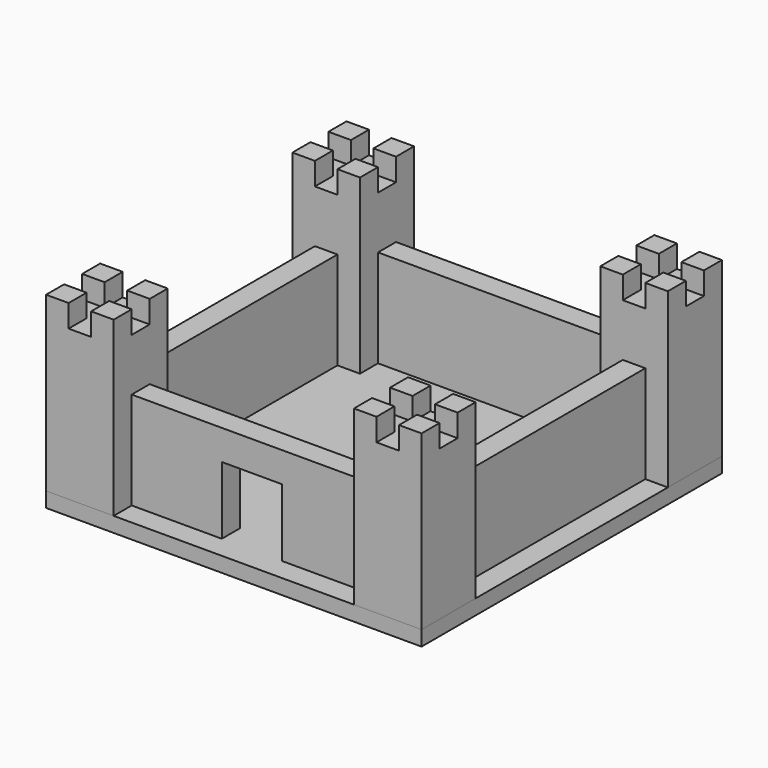
from build123d import *

# Parameters (mm, degrees)
BOX_W                  = 50
BOX_H                  = 50
BOX_DEPTH              = 2
BOX010_W               = 8
BOX010_H               = 10
BOX010_DEPTH           = 9
BOX006_W               = 32
BOX006_H               = 3
BOX006_DEPTH           = 13
BOX009_W               = 32
BOX009_H               = 3
BOX009_DEPTH           = 13
BOX009_PLACEMENT_ANGLE = 90
BOX007_W               = 32
BOX007_H               = 3
BOX007_DEPTH           = 13
BOX005_W               = 3
BOX005_H               = 3
BOX005_DEPTH           = 3
BOX004_W               = 3
BOX004_H               = 3
BOX004_DEPTH           = 3
BOX003_W               = 3
BOX003_H               = 3
BOX003_DEPTH           = 3
BOX002_W               = 9
BOX002_H               = 9
BOX002_DEPTH           = 20
BOX001_W               = 3
BOX001_H               = 3
BOX001_DEPTH           = 3
BOX008_W               = 32
BOX008_H               = 3
BOX008_DEPTH           = 13
BOX008_PLACEMENT_ANGLE = 90


with BuildPart() as base:
    # Box → Box (new body)
    with BuildSketch(Plane.XY.offset(-2)):
        with Locations((25, 25)):
            Rectangle(BOX_W, BOX_H)
    extrude(amount=BOX_DEPTH)


with BuildPart() as puerta:
    # Box010 → Box010 (new body)
    with BuildSketch(Plane(origin=(21, 0, 0), x_dir=(1, 0, 0), z_dir=(0, 0, 1))):
        with Locations((4, 5)):
            Rectangle(BOX010_W, BOX010_H)
    extrude(amount=BOX010_DEPTH)


with BuildPart() as obj1:
    # Box006 → Box006 (new body)
    with BuildSketch(Plane(origin=(9, 3, 0), x_dir=(1, 0, 0), z_dir=(0, 0, 1))):
        with Locations((16, 1.5)):
            Rectangle(BOX006_W, BOX006_H)
    extrude(amount=BOX006_DEPTH)

    # Cut: cut puerta
    add(puerta.part, mode=Mode.SUBTRACT)


with BuildPart() as obj2:
    # Box009 → Box009 (new body)
    with BuildSketch(Plane.XY):
        with Locations((16, 1.5)):
            Rectangle(BOX009_W, BOX009_H)
    extrude(amount=BOX009_DEPTH)


with BuildPart() as obj2_1:
    # Box009 placement: moved
    add(obj2.part.moved(Location((47, 9, 0))).rotate(Axis((47, 9, 0), (0, 0, 1)), BOX009_PLACEMENT_ANGLE))


with BuildPart() as obj3:
    # Box007 → Box007 (new body)
    with BuildSketch(Plane(origin=(9, 44, 0), x_dir=(1, 0, 0), z_dir=(0, 0, 1))):
        with Locations((16, 1.5)):
            Rectangle(BOX007_W, BOX007_H)
    extrude(amount=BOX007_DEPTH)


with BuildPart() as obj4:
    # Box005 → Box005 (new body)
    with BuildSketch(Plane(origin=(6, 6, 20), x_dir=(1, 0, 0), z_dir=(0, 0, 1))):
        with Locations((1.5, 1.5)):
            Rectangle(BOX005_W, BOX005_H)
    extrude(amount=BOX005_DEPTH)


with BuildPart() as obj5:
    # Box004 → Box004 (new body)
    with BuildSketch(Plane(origin=(0, 6, 20), x_dir=(1, 0, 0), z_dir=(0, 0, 1))):
        with Locations((1.5, 1.5)):
            Rectangle(BOX004_W, BOX004_H)
    extrude(amount=BOX004_DEPTH)


with BuildPart() as obj6:
    # Box003 → Box003 (new body)
    with BuildSketch(Plane(origin=(6, 0, 20), x_dir=(1, 0, 0), z_dir=(0, 0, 1))):
        with Locations((1.5, 1.5)):
            Rectangle(BOX003_W, BOX003_H)
    extrude(amount=BOX003_DEPTH)


with BuildPart() as base_torre:
    # Box002 → Box002 (new body)
    with BuildSketch(Plane.XY):
        with Locations((4.5, 4.5)):
            Rectangle(BOX002_W, BOX002_H)
    extrude(amount=BOX002_DEPTH)


with BuildPart() as obj7:
    # Box001 → Box001 (new body)
    with BuildSketch(Plane.XY.offset(20)):
        with Locations((1.5, 1.5)):
            Rectangle(BOX001_W, BOX001_H)
    extrude(amount=BOX001_DEPTH)


with BuildPart() as fusion002:
    # Fusion002 base: copy of obj7
    add(obj7.part)

    # Fusion002: union obj4, obj5, obj6, Base-torre
    add(obj4.part)
    add(obj5.part)
    add(obj6.part)
    add(base_torre.part)


with BuildPart() as fusion002_1:
    # Fusion002 placement: moved
    add(fusion002.part.moved(Location((0, 41, 0))))


with BuildPart() as fusion001:
    # Fusion001 base: copy of obj7
    add(obj7.part)

    # Fusion001: union obj4, obj5, obj6, Base-torre
    add(obj4.part)
    add(obj5.part)
    add(obj6.part)
    add(base_torre.part)


with BuildPart() as fusion001_1:
    # Fusion001 placement: moved
    add(fusion001.part.moved(Location((41, 0, 0))))


with BuildPart() as fusion003:
    # Fusion003 base: copy of obj7
    add(obj7.part)

    # Fusion003: union obj4, obj5, obj6, Base-torre
    add(obj4.part)
    add(obj5.part)
    add(obj6.part)
    add(base_torre.part)


with BuildPart() as fusion003_1:
    # Fusion003 placement: moved
    add(fusion003.part.moved(Location((41, 41, 0))))


with BuildPart() as obj8:
    # Box008 → Box008 (new body)
    with BuildSketch(Plane.XY):
        with Locations((16, 1.5)):
            Rectangle(BOX008_W, BOX008_H)
    extrude(amount=BOX008_DEPTH)


with BuildPart() as obj8_1:
    # Box008 placement: moved
    add(obj8.part.moved(Location((6, 9, 0))).rotate(Axis((6, 9, 0), (0, 0, 1)), BOX008_PLACEMENT_ANGLE))


with BuildPart() as obj9:
    # Fusion base: copy of obj7
    add(obj7.part)

    # Fusion: union obj4, obj5, obj6, Base-torre
    add(obj4.part)
    add(obj5.part)
    add(obj6.part)
    add(base_torre.part)

    # Fusion004: union obj1, obj2, obj3, Fusion002, Fusion001, Fusion003, obj8
    add(obj1.part)
    add(obj2_1.part)
    add(obj3.part)
    add(fusion002_1.part)
    add(fusion001_1.part)
    add(fusion003_1.part)
    add(obj8_1.part)


solid = Compound([base.part, obj9.part])
